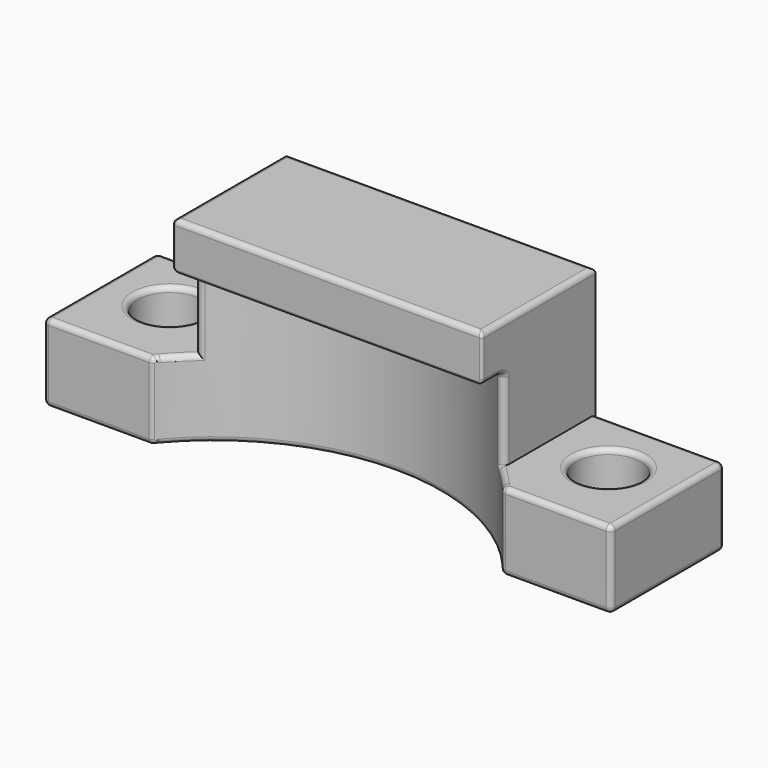
from build123d import *

# Parameters (mm, degrees)
CYLINDER017_R     = 8.75
CYLINDER017_DEPTH = 9.2
FILLET024_1_R     = 0.5
FILLET024_2_R     = 0.2
CYLINDER016_R     = 1.25
CYLINDER016_DEPTH = 12
CYLINDER015_R     = 1.25
CYLINDER015_DEPTH = 12
BOX012_W          = 12
BOX012_H          = 5.5
BOX012_DEPTH      = 6
BOX011_W          = 22
BOX011_H          = 5.5
BOX011_DEPTH      = 3
FILLET026_R       = 0.2
FILLET027_R       = 0.2
FILLET028_R       = 0.2
FILLET029_R       = 0.2
FILLET030_R       = 0.1


with BuildPart() as obj1:
    # Cylinder017 → Cylinder017 (new body)
    with BuildSketch(Plane.XY.offset(3)):
        Circle(CYLINDER017_R)
    extrude(amount=CYLINDER017_DEPTH)

    # Fillet024 1
    fillet024_1_edges = [obj1.edges().sort_by_distance(p)[0] for p in [
        (-8.75, 0, 3),
    ]]
    fillet(fillet024_1_edges, radius=FILLET024_1_R)

    # Fillet024 2
    fillet024_2_edges = [obj1.edges().sort_by_distance(p)[0] for p in [
        (-8.75, 0, 12.2),
    ]]
    fillet(fillet024_2_edges, radius=FILLET024_2_R)


with BuildPart() as obj1_1:
    # Fillet024 placement: moved
    add(obj1.part.moved(Location((0, 0, -3))))


with BuildPart() as cylinder016:
    # Cylinder016 → Cylinder016 (new body)
    with BuildSketch(Plane(origin=(8.5, 8.5, -3), x_dir=(1, 0, 0), z_dir=(0, 0, 1))):
        Circle(CYLINDER016_R)
    extrude(amount=CYLINDER016_DEPTH)


with BuildPart() as cylinder015:
    # Cylinder015 → Cylinder015 (new body)
    with BuildSketch(Plane(origin=(-8.5, 8.5, -3), x_dir=(1, 0, 0), z_dir=(0, 0, 1))):
        Circle(CYLINDER015_R)
    extrude(amount=CYLINDER015_DEPTH)


with BuildPart() as cube007:
    # Box012 → Box012 (new body)
    with BuildSketch(Plane(origin=(-6, 5.5, 6), x_dir=(1, 0, 0), z_dir=(0, 0, 1))):
        with Locations((6, 2.75)):
            Rectangle(BOX012_W, BOX012_H)
    extrude(amount=BOX012_DEPTH)


with BuildPart() as shell:
    # Box011 → Box011 (new body)
    with BuildSketch(Plane(origin=(-11, 5.5, 4), x_dir=(1, 0, 0), z_dir=(0, 0, 1))):
        with Locations((11, 2.75)):
            Rectangle(BOX011_W, BOX011_H)
    extrude(amount=BOX011_DEPTH)

    # Fusion005: union Cube007
    add(cube007.part)

    # Cut011: cut Cylinder015
    add(cylinder015.part, mode=Mode.SUBTRACT)

    # Cut012: cut Cylinder016
    add(cylinder016.part, mode=Mode.SUBTRACT)


with BuildPart() as shell_1:
    # Cut012 placement: moved
    add(shell.part.moved(Location((0, 0, -1))))

    # Cut013: cut obj1
    add(obj1_1.part, mode=Mode.SUBTRACT)


with BuildPart() as shell_2:
    # Cut013 placement: moved
    add(shell_1.part.moved(Location((0, 0, 1))))

    # Fillet026
    fillet026_edges = [shell_2.edges().sort_by_distance(p)[0] for p in [
        (-11, 5.5, 5.5),
        (-11, 8.25, 7),
        (-11, 11, 5.5),
        (-11, 8.25, 4),
        (-8.902664, 5.5, 7),
        (-8.902664, 5.5, 4),
        (-8.5, 11, 7),
        (11, 11, 5.5),
        (8.5, 11, 7),
        (0, 11, 4),
        (11, 8.25, 4),
        (8.902664, 5.5, 4),
        (11, 5.5, 5.5),
        (11, 8.25, 7),
        (8.902664, 5.5, 7),
    ]]
    fillet(fillet026_edges, radius=FILLET026_R)

    # Fillet027
    fillet027_edges = [shell_2.edges().sort_by_distance(p)[0] for p in [
        (-6.328199, 6.042879, 7),
        (6.328199, 6.042879, 7),
        (6, 6.36887, 8.5),
        (-6, 6.36887, 8.5),
    ]]
    fillet(fillet027_edges, radius=FILLET027_R)

    # Fillet028
    fillet028_edges = [shell_2.edges().sort_by_distance(p)[0] for p in [
        (-9.75, 8.5, 7),
        (-9.75, 8.5, 4),
        (7.25, 8.5, 4),
        (7.25, 8.5, 7),
    ]]
    fillet(fillet028_edges, radius=FILLET028_R)

    # Fillet029
    fillet029_edges = [shell_2.edges().sort_by_distance(p)[0] for p in [
        (-6, 8.25, 12),
        (0, 11, 12),
        (6, 8.25, 12),
        (0, 5.5, 12),
    ]]
    fillet(fillet029_edges, radius=FILLET029_R)

    # Fillet030
    fillet030_edges = [shell_2.edges().sort_by_distance(p)[0] for p in [
        (0, 5.5, 10.2),
    ]]
    fillet(fillet030_edges, radius=FILLET030_R)


solid = shell_2.part
